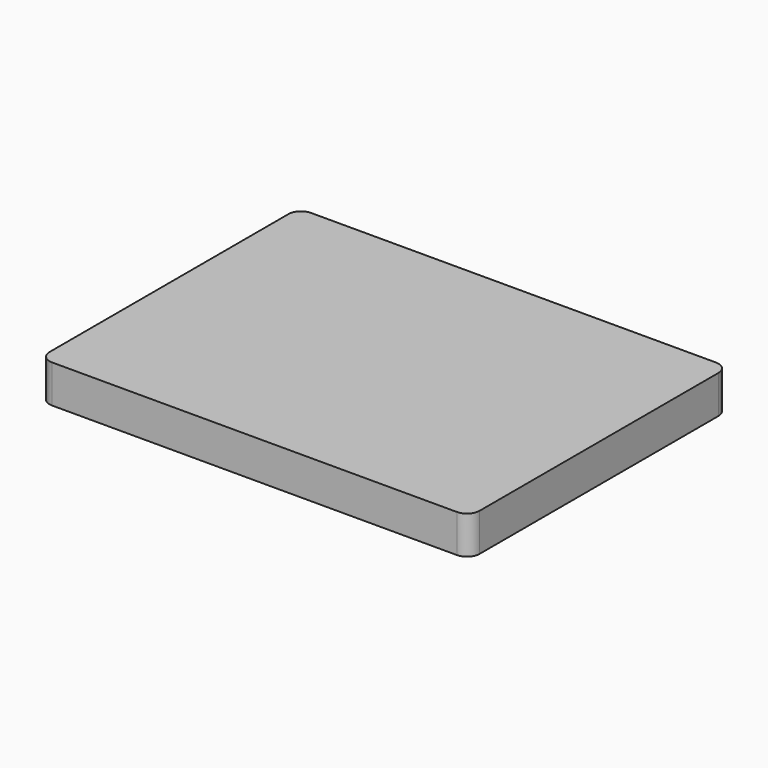
from build123d import *

# Parameters (mm, degrees)
F0_W     = 107.95
F0_H     = 81.28
F1_DEPTH = 4.7625
F2_R     = 3.175


with BuildPart() as f1:
    # F0 (on Top) → F1 (new body, symmetric)
    with BuildSketch(Plane.XY):
        Rectangle(F0_W, F0_H)
    extrude(amount=F1_DEPTH, both=True)

    # F2
    f2_edges = [f1.edges().sort_by_distance(p)[0] for p in [
        (53.975, -40.64, 0),
        (53.975, 40.64, 0),
        (-53.975, -40.64, 0),
        (-53.975, 40.64, 0),
    ]]
    fillet(f2_edges, radius=F2_R)


solid = f1.part
